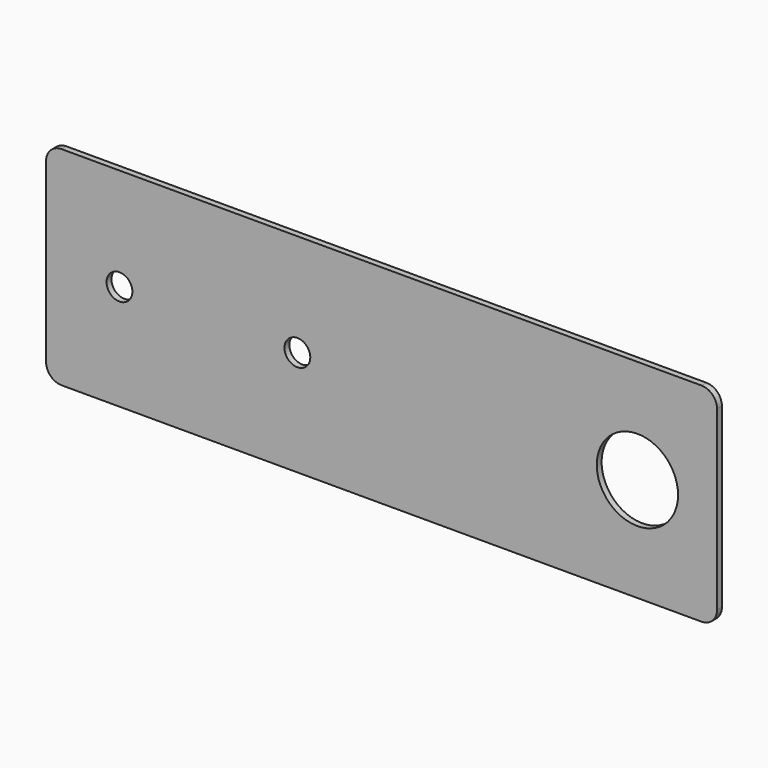
from build123d import *

# Parameters (mm, degrees)
F0_R     = 3.175
F0_R_2   = 9.9949
F1_DEPTH = 0.7493


with BuildPart() as f1:
    # F0 (on Front) → F1 (new body, symmetric)
    with BuildSketch(Plane.XZ):
        with BuildLine():
            ThreePointArc((82.4992, 21.7551), (81.383277, 24.449177), (78.6892, 25.5651))
            Line((78.6892, 25.5651), (-78.6892, 25.5651))
            ThreePointArc((-78.6892, 25.5651), (-81.383277, 24.449177), (-82.4992, 21.7551))
            Line((-82.4992, 21.7551), (-82.4992, -21.7551))
            ThreePointArc((-82.4992, -21.7551), (-81.383277, -24.449177), (-78.6892, -25.5651))
            Line((-78.6892, -25.5651), (78.6892, -25.5651))
            ThreePointArc((78.6892, -25.5651), (81.383277, -24.449177), (82.4992, -21.7551))
            Line((82.4992, -21.7551), (82.4992, 21.7551))
        make_face()
        with Locations((-64.4525, 0.3683)):
            Circle(F0_R, mode=Mode.SUBTRACT)
        with Locations((-20.701, 0.3683)):
            Circle(F0_R, mode=Mode.SUBTRACT)
        with Locations((62.9158, 0)):
            Circle(F0_R_2, mode=Mode.SUBTRACT)
    extrude(amount=F1_DEPTH, both=True)


solid = f1.part
